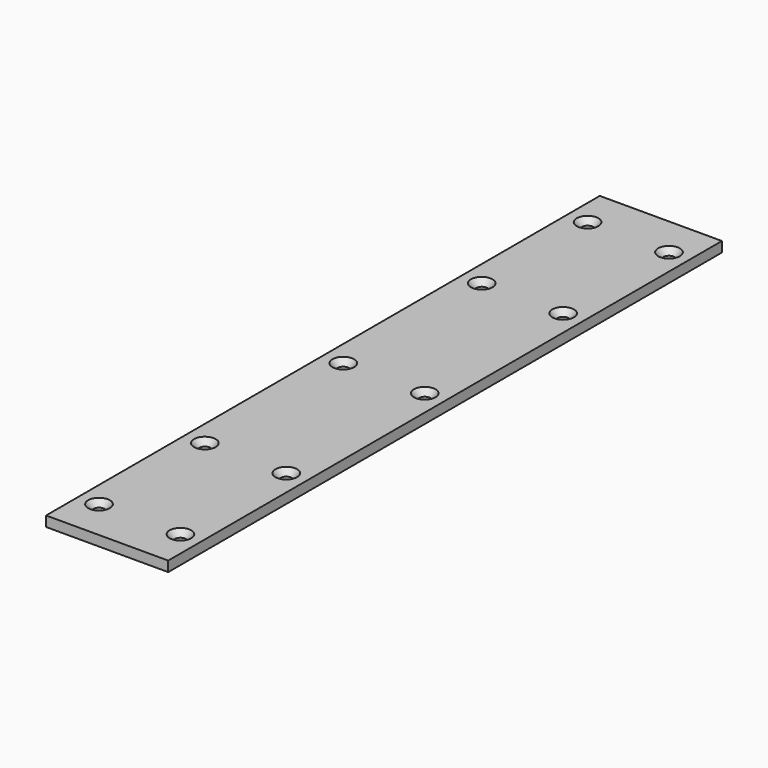
from build123d import *

# Parameters (mm, degrees)
SKETCH_W         = 76.2
SKETCH_H         = 431.8
PAD_DEPTH        = 6.35
HOLE_D           = 7.1
HOLE_CSINK_D     = 13.49375
HOLE_CSINK_ANGLE = 81


with BuildPart() as part:
    # Sketch → Pad (new body)
    with BuildSketch(Plane.XY):
        Rectangle(SKETCH_W, SKETCH_H)
    extrude(amount=PAD_DEPTH)

    # Hole (through all)
    with Locations(Plane.XY.offset(6.35)):
        with Locations((-25.4, 190.5), (-25.4, 0), (-25.4, 107.95), (-25.4, -190.5), (-25.4, -107.95), (25.4, -190.5), (25.4, -107.95), (25.4, 0), (25.4, 107.95), (25.4, 190.5)):
            CounterSinkHole(HOLE_D / 2, HOLE_CSINK_D / 2, counter_sink_angle=HOLE_CSINK_ANGLE)


solid = part.part
